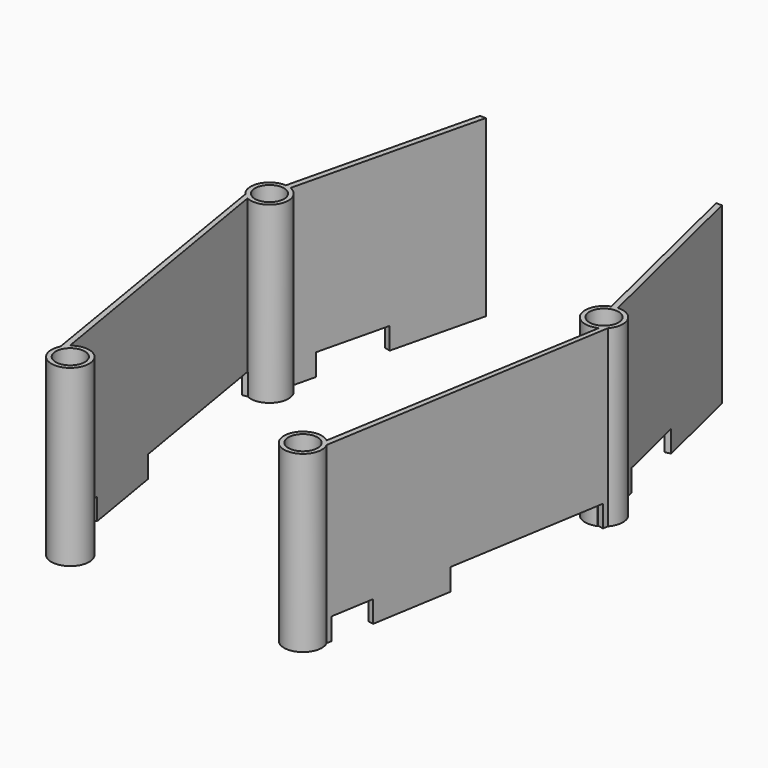
from build123d import *

# Parameters (mm, degrees)
F0_R     = 2.6
F1_DEPTH = 24
F4_DEPTH = 24
F5_D     = 4
F6_W     = 22
F6_H     = 3
F6_W_2   = 6
F7_DEPTH = 0.8
F8_W     = 10
F8_H     = 3
F9_DEPTH = 2


with BuildPart() as f1:
    # F0 (on Top) → F1 (new body)
    with BuildSketch(Plane.XY):
        with Locations((-23, 43)):
            Circle(F0_R)
    extrude(amount=F1_DEPTH)



with BuildPart() as f1b:
    # F0 (on Top) → F1, piece 2 (new body)
    with BuildSketch(Plane.XY):
        with Locations((-16, 0)):
            Circle(F0_R)
    extrude(amount=F1_DEPTH)


with BuildPart() as f1_1:
    add(f1.part)

    add(f1b.part)  # F4 merges F1b
    # F3 (on Top) → F4 (join)
    with BuildSketch(Plane.XY):
        Polygon((-24.7263594471, 44.0490897611), (-25.3071562016, 43.4989305751), (-18.1161369738, 0), (-17.3161369738, 0), align=None)
        Polygon((-16.6362095624, 71.2243393064), (-23.301705718, 43.6581224203), (-22.5029374696, 43.6137457905), (-15.8362095624, 71.2243393064), align=None)
    extrude(amount=F4_DEPTH)

    # F5 (through all)
    with Locations(Plane(origin=(0, 0, 0), x_dir=(1, 0, 0), z_dir=(0, 0, -1))):
        with Locations((-23, -43), (-16, 0)):
            Hole(F5_D / 2)

    # F6 (on face) → F7 (cut)
    with BuildSketch(Plane(origin=(-17.6342116053, -2.9151970645, 0), x_dir=(0.1631011774, -0.9866093482, 0), z_dir=(-0.9866093482, -0.1631011774, 0))):
        with Locations((-33.0678777581, 1.5)):
            Rectangle(F6_W, F6_H)
        with Locations((-7.8588104236, 1.5)):
            Rectangle(F6_W_2, F6_H)
    extrude(amount=-F7_DEPTH, mode=Mode.SUBTRACT)

    # F8 (on face) → F9 (cut)
    with BuildSketch(Plane(origin=(-31.9879756421, 7.7346750027, 0), x_dir=(-0.2350264048, -0.9719889861, 0), z_dir=(-0.9719889861, 0.2350264048, 0))):
        with Locations((-47.4510434546, 1.5)):
            Rectangle(F8_W, F8_H)
    extrude(amount=-F9_DEPTH, mode=Mode.SUBTRACT)


with BuildPart() as f10_1:
    # F10: instance of F1
    add(f1_1.part.mirror(Plane.YZ))


solid = Compound([f1_1.part, f10_1.part])
